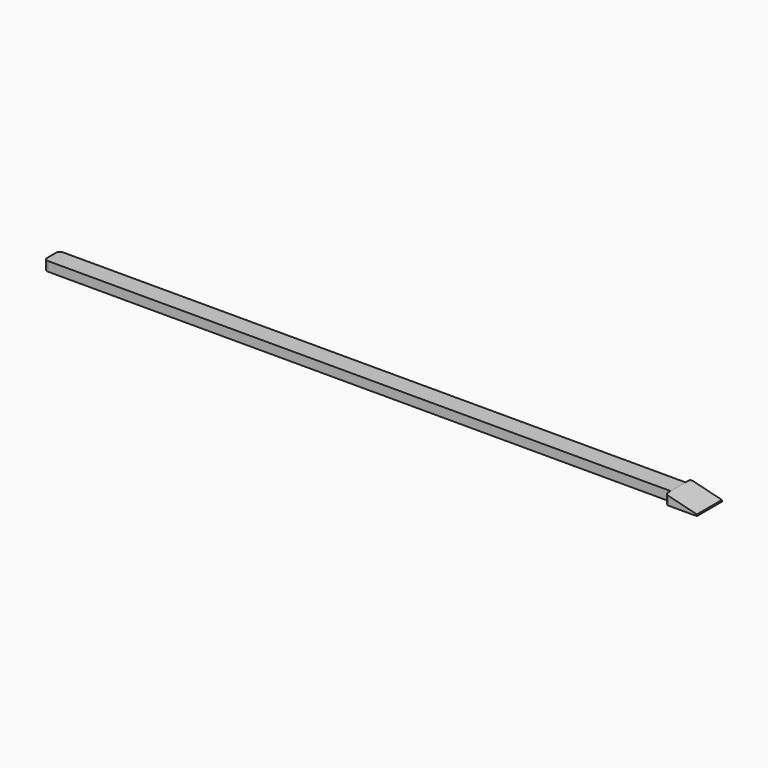
from build123d import *

# Parameters (mm, degrees)
PAD_DEPTH     = 10
FILLET001_1_R = 1
FILLET001_2_R = 0.7
BOX_W         = 200
BOX_H         = 6
BOX_DEPTH     = 3
FILLET_R      = 1.2


with BuildPart() as end_fillet:
    # Sketch → Pad (new body)
    with BuildSketch(Plane.XZ):
        Polygon((0, 0), (0, 3), (10, 0.5), (10, 0), align=None)
    extrude(amount=PAD_DEPTH)


with BuildPart() as end_fillet_1:
    # Body placement: moved
    add(end_fillet.part.moved(Location((0, 8, 0))))

    # Fillet001 1
    fillet001_1_edges = [end_fillet_1.edges().sort_by_distance(p)[0] for p in [
        (0, -2, 1.5),
    ]]
    fillet(fillet001_1_edges, radius=FILLET001_1_R)

    # Fillet001 2
    fillet001_2_edges = [end_fillet_1.edges().sort_by_distance(p)[0] for p in [
        (0, 8, 1.5),
    ]]
    fillet(fillet001_2_edges, radius=FILLET001_2_R)


with BuildPart() as fusion:
    # Box → Box (new body)
    with BuildSketch(Plane(origin=(-200, 0, 0), x_dir=(1, 0, 0), z_dir=(0, 0, 1))):
        with Locations((100, 3)):
            Rectangle(BOX_W, BOX_H)
    extrude(amount=BOX_DEPTH)

    # Fillet
    fillet_edges = [fusion.edges().sort_by_distance(p)[0] for p in [
        (-200, 0, 1.5),
        (-200, 6, 1.5),
    ]]
    fillet(fillet_edges, radius=FILLET_R)

    # Fusion: union end fillet
    add(end_fillet_1.part)


solid = fusion.part
